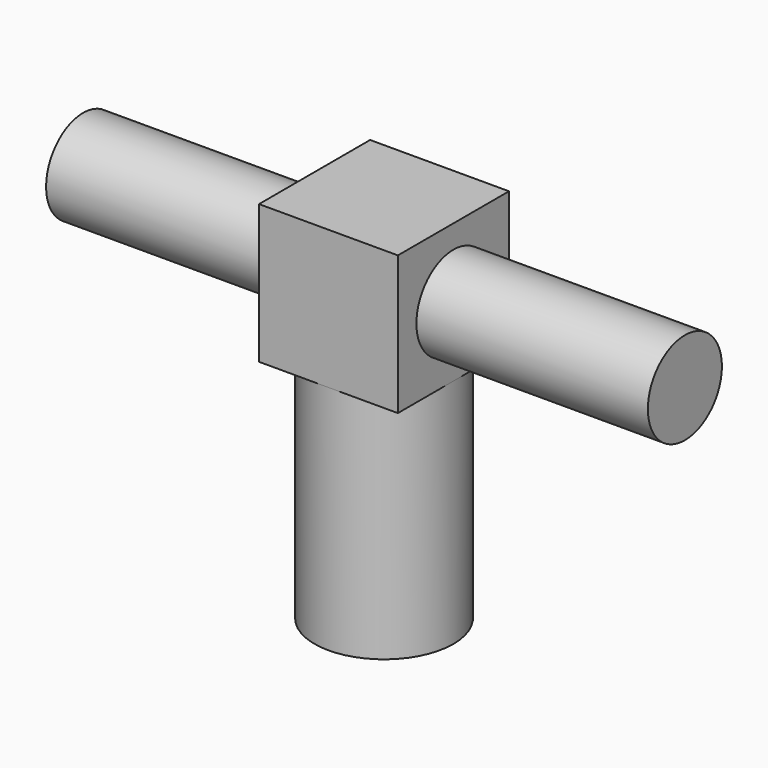
from build123d import *

# Parameters (mm, degrees)
F0_W     = 30
F0_H     = 30
F1_DEPTH = 30
F2_R     = 15
F3_DEPTH = 50
F4_R     = 10
F5_DEPTH = 50
F6_R     = 10
F7_DEPTH = 50


with BuildPart() as f1:
    # F0 (on Top) → F1 (new body)
    with BuildSketch(Plane.XY):
        Rectangle(F0_W, F0_H)
    extrude(amount=F1_DEPTH)

    # F2 (on face) → F3 (join)
    with BuildSketch(Plane(origin=(0, 0, 0), x_dir=(1, 0, 0), z_dir=(0, 0, -1))):
        Circle(F2_R)
    extrude(amount=F3_DEPTH)

    # F4 (on face) → F5 (join)
    with BuildSketch(Plane.YZ.offset(15)):
        with Locations((0, 15)):
            Circle(F4_R)
    extrude(amount=F5_DEPTH)

    # F6 (on face) → F7 (join)
    with BuildSketch(Plane(origin=(-15, 0, 0), x_dir=(0, -1, 0), z_dir=(-1, 0, 0))):
        with Locations((0, 15)):
            Circle(F6_R)
    extrude(amount=F7_DEPTH)


solid = f1.part
